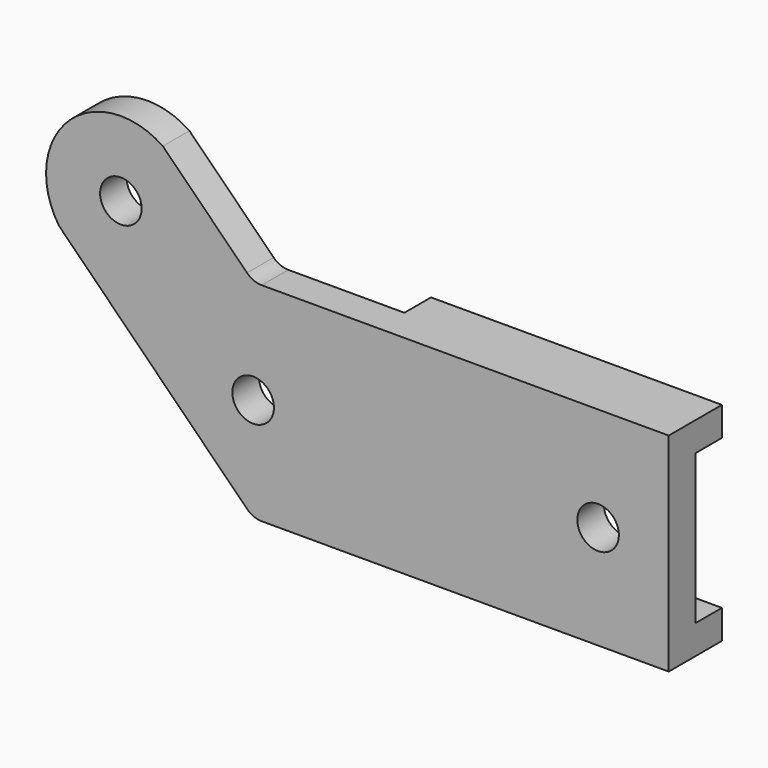
from build123d import *

# Parameters (mm, degrees)
F0_R     = 5
F1_DEPTH = 8
F2_W     = 70
F2_H     = 50
F3_DEPTH = 8
F4_W     = 50
F4_H     = 36
F5_DEPTH = 8
F6_R     = 5
F7_DEPTH = 25


with BuildPart() as f1:
    # F0 (on Front) → F1 (new body)
    with BuildSketch(Plane.XZ):
        with BuildLine():
            ThreePointArc((-51.464466, 1.464466), (-49.842349, 0.380602), (-47.928932, 0))
            Line((-47.928932, 0), (50, 0))
            Line((50, 0), (50, 50))
            Line((50, 50), (-47.928932, 50))
            ThreePointArc((-47.928932, 50), (-49.842349, 50.380602), (-51.464466, 51.464466))
            Line((-51.464466, 51.464466), (-71.717587, 71.717587))
            ThreePointArc((-71.717587, 71.717587), (-94.547613, 69.547798), (-96.717812, 46.717812))
            Line((-96.717812, 46.717812), (-51.464466, 1.464466))
        make_face()
        with Locations((-50, 24.999957)):
            Circle(F0_R, mode=Mode.SUBTRACT)
        with Locations((-81.819805, 56.819762)):
            Circle(F0_R, mode=Mode.SUBTRACT)
    extrude(amount=-F1_DEPTH)

    # F2 (on face) → F3 (join)
    with BuildSketch(Plane(origin=(0, 8, 0), x_dir=(-1, 0, 0), z_dir=(0, 1, 0))):
        with Locations((-15, 25)):
            Rectangle(F2_W, F2_H)
    extrude(amount=F3_DEPTH)

    # F4 (on face) → F5 (cut)
    with BuildSketch(Plane(origin=(0, 16, 0), x_dir=(-1, 0, 0), z_dir=(0, 1, 0))):
        with Locations((-25, 25)):
            Rectangle(F4_W, F4_H)
    extrude(amount=-F5_DEPTH, mode=Mode.SUBTRACT)

    # F6 (on face) → F7 (cut)
    with BuildSketch(Plane(origin=(0, 8, 0), x_dir=(-1, 0, 0), z_dir=(0, 1, 0))):
        with Locations((-33, 25)):
            Circle(F6_R)
    extrude(amount=-F7_DEPTH, mode=Mode.SUBTRACT)


solid = f1.part
